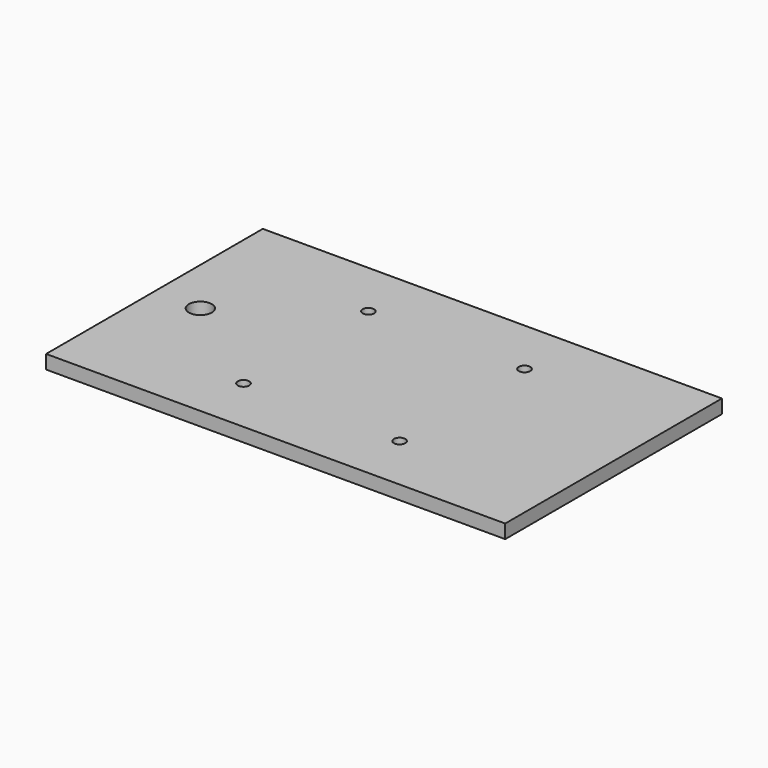
from build123d import *

# Parameters (mm, degrees)
F0_W     = 100
F0_H     = 59
F0_R     = 1.25
F0_R_2   = 2.5
F1_DEPTH = 3


with BuildPart() as f1:
    # F0 (on Top) → F1 (new body)
    with BuildSketch(Plane.XY):
        Rectangle(F0_W, F0_H)
        with Locations((-17, -17)):
            Circle(F0_R, mode=Mode.SUBTRACT)
        with Locations((17, -17)):
            Circle(F0_R, mode=Mode.SUBTRACT)
        with Locations((-40, 0)):
            Circle(F0_R_2, mode=Mode.SUBTRACT)
        with Locations((-17, 17)):
            Circle(F0_R, mode=Mode.SUBTRACT)
        with Locations((17, 17)):
            Circle(F0_R, mode=Mode.SUBTRACT)
    extrude(amount=F1_DEPTH)


solid = f1.part
